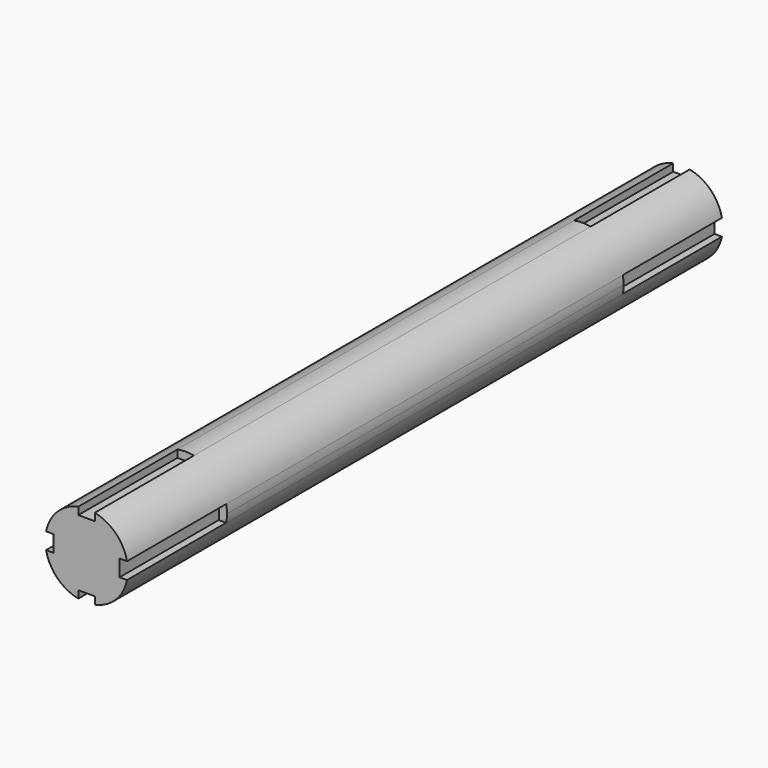
from build123d import *

# Parameters (mm, degrees)
F0_W     = 4
F0_H     = 6
F0_W_2   = 6
F0_H_2   = 4
F1_DEPTH = 180
F2_START = 30
F2_DEPTH = 120


with BuildPart() as f1:
    # F0 (on Front) → F1 (new body)
    with BuildSketch(Plane.XZ):
        with Locations((0, 5)):
            Rectangle(F0_W, F0_H)
        with BuildLine():
            Line((8, 2), (9.7979589711, 2))
            ThreePointArc((9.7979589711, 2), (7.0710678119, 7.0710678119), (2, 9.7979589711))
            Line((2, 9.7979589711), (2, 8))
            Line((2, 8), (2, 2))
            Line((2, 2), (8, 2))
        make_face()
        with Locations((5, 0)):
            Rectangle(F0_W_2, F0_H_2)
        with BuildLine():
            ThreePointArc((2, -9.7979589711), (7.0710678119, -7.0710678119), (9.7979589711, -2))
            Line((9.7979589711, -2), (8, -2))
            Line((8, -2), (2, -2))
            Line((2, -2), (2, -8))
            Line((2, -8), (2, -9.7979589711))
        make_face()
        with Locations((0, -5)):
            Rectangle(F0_W, F0_H)
        with Locations((-5, 0)):
            Rectangle(F0_W_2, F0_H_2)
        Rectangle(F0_W, F0_H_2)
        with BuildLine():
            Line((-2, 8), (-2, 9.7979589711))
            ThreePointArc((-2, 9.7979589711), (-7.0710678119, 7.0710678119), (-9.7979589711, 2))
            Line((-9.7979589711, 2), (-8, 2))
            Line((-8, 2), (-2, 2))
            Line((-2, 2), (-2, 8))
        make_face()
        with BuildLine():
            ThreePointArc((-9.7979589711, -2), (-7.0710678119, -7.0710678119), (-2, -9.7979589711))
            Line((-2, -9.7979589711), (-2, -8))
            Line((-2, -8), (-2, -2))
            Line((-2, -2), (-8, -2))
            Line((-8, -2), (-9.7979589711, -2))
        make_face()
    extrude(amount=F1_DEPTH)

    # F0 (on Front) → F2 (join)
    with BuildSketch(Plane.XZ.offset(F2_START)):
        with BuildLine():
            Line((2, 8), (2, 9.7979589711))
            ThreePointArc((2, 9.7979589711), (0, 10), (-2, 9.7979589711))
            Line((-2, 9.7979589711), (-2, 8))
            Line((-2, 8), (2, 8))
        make_face()
        with BuildLine():
            Line((-8, 2), (-9.7979589711, 2))
            ThreePointArc((-9.7979589711, 2), (-10, 0), (-9.7979589711, -2))
            Line((-9.7979589711, -2), (-8, -2))
            Line((-8, -2), (-8, 2))
        make_face()
        with BuildLine():
            ThreePointArc((-2, -9.7979589711), (0, -10), (2, -9.7979589711))
            Line((2, -9.7979589711), (2, -8))
            Line((2, -8), (-2, -8))
            Line((-2, -8), (-2, -9.7979589711))
        make_face()
        with BuildLine():
            ThreePointArc((9.7979589711, -2), (9.9493615301, -1.0050896201), (10, 0))
            ThreePointArc((10, 0), (9.9493615301, 1.0050896201), (9.7979589711, 2))
            Line((9.7979589711, 2), (8, 2))
            Line((8, 2), (8, -2))
            Line((8, -2), (9.7979589711, -2))
        make_face()
    extrude(amount=F2_DEPTH)


solid = f1.part
